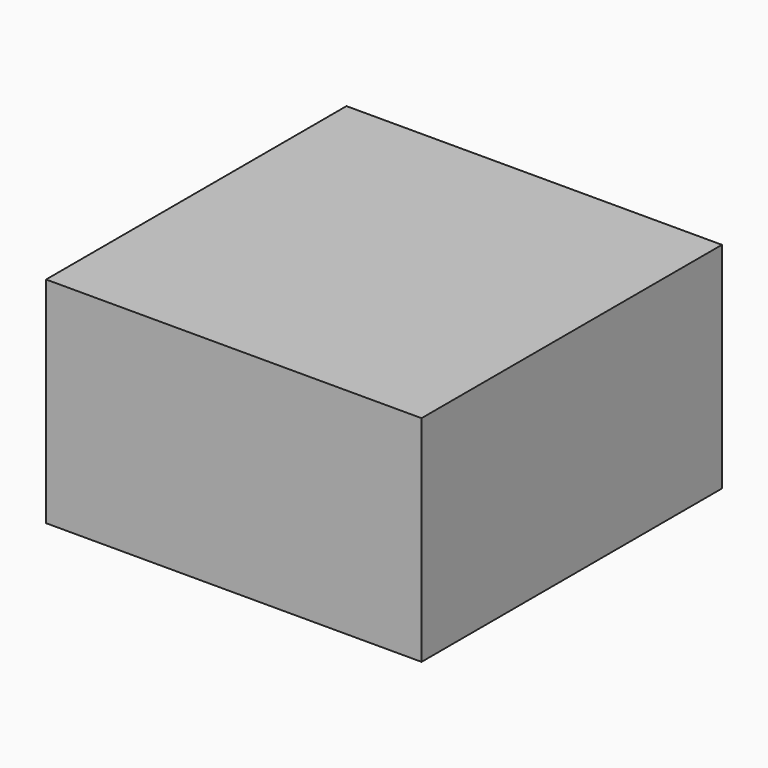
from build123d import *

# Parameters (mm, degrees)
BOX_W     = 42
BOX_H     = 42
BOX_DEPTH = 24


with BuildPart() as part:
    # Box → Box (new body)
    with BuildSketch(Plane.XY):
        with Locations((21, 21)):
            Rectangle(BOX_W, BOX_H)
    extrude(amount=BOX_DEPTH)


solid = part.part
